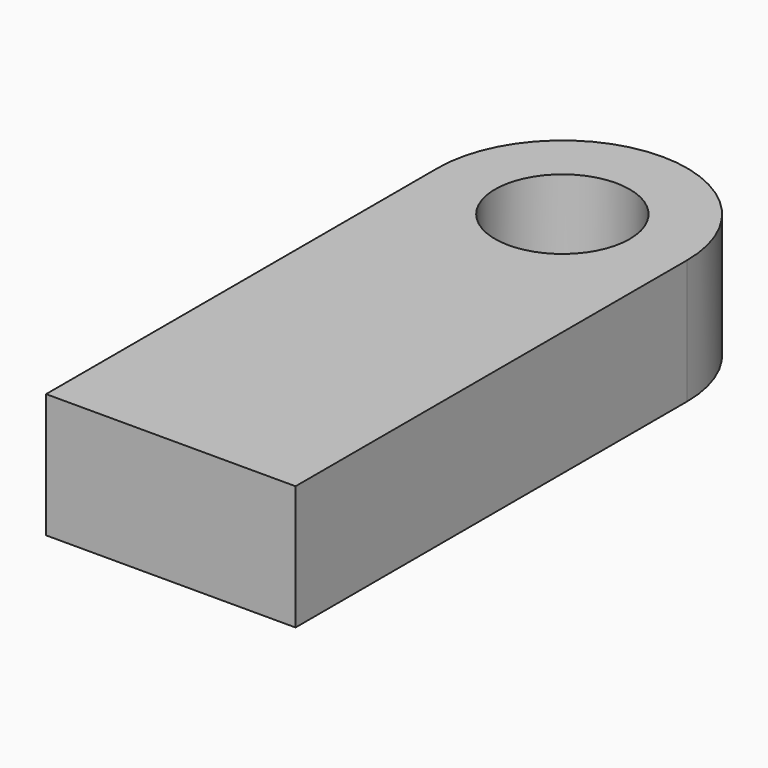
from build123d import *

# Parameters (mm, degrees)
F0_R     = 13.75234
F1_DEPTH = 25.4


with BuildPart() as f1:
    # F0 (on Top) → F1 (new body)
    with BuildSketch(Plane.XY):
        with BuildLine():
            Line((-25.476253, 49.988549), (-25.476253, -49.988549))
            Line((-25.476253, -49.988549), (25.476253, -49.988549))
            Line((25.476253, -49.988549), (25.476253, 49.988549))
            ThreePointArc((25.476253, 49.988549), (0, 75.464802), (-25.476253, 49.988549))
        make_face()
        with Locations((0, 49.988549)):
            Circle(F0_R, mode=Mode.SUBTRACT)
    extrude(amount=F1_DEPTH)


solid = f1.part
